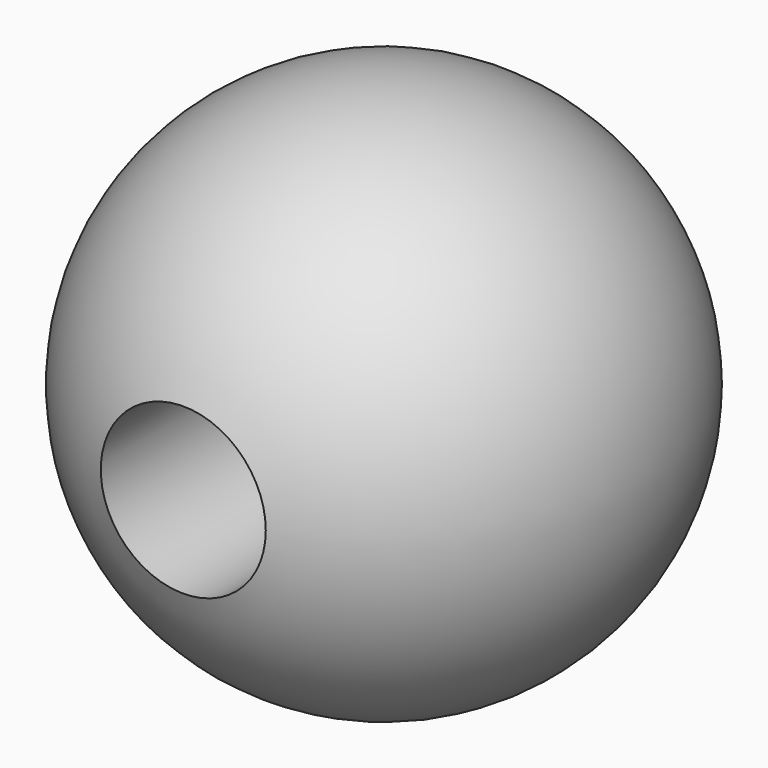
from build123d import *

# Parameters (mm, degrees)
F2_R     = 12.5
F3_DEPTH = 50


with BuildPart() as f1:
    # F0 (on Top) → F1 (revolve)
    with BuildSketch(Plane.XY):
        with BuildLine():
            Line((0, 40), (0, -40))
            ThreePointArc((0, -40), (40, 0), (0, 40))
        make_face()
    revolve(axis=Axis((0, 0, 0), (0, -1, 0)))

    # F2 (on Front) → F3 (cut, symmetric)
    with BuildSketch(Plane.XZ):
        Circle(F2_R)
    extrude(amount=F3_DEPTH, both=True, mode=Mode.SUBTRACT)


solid = f1.part
